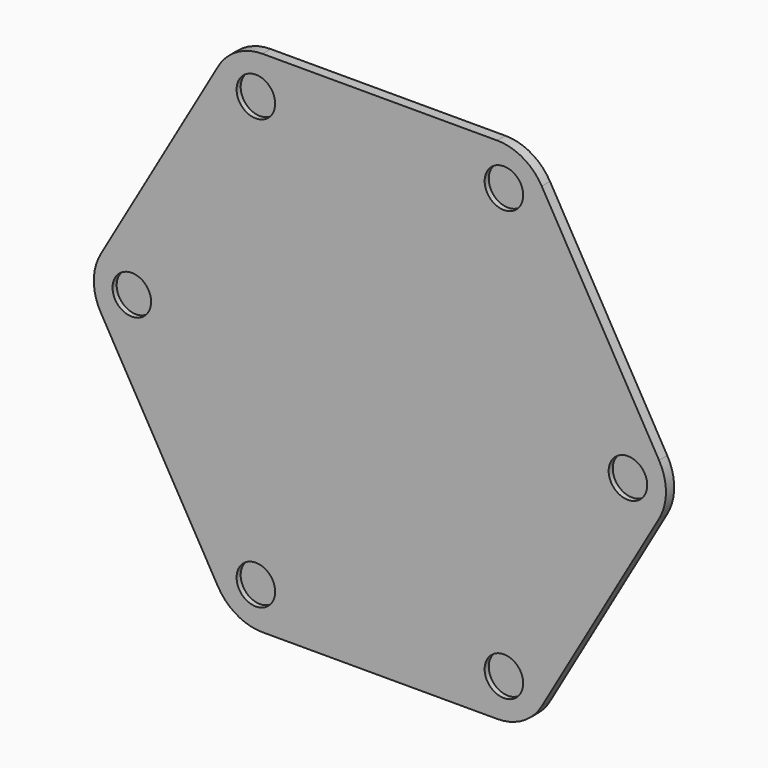
from build123d import *

# Parameters (mm, degrees)
F1_DEPTH = 5.08
F2_R     = 9.525
F3_DEPTH = 2.54


with BuildPart() as f1:
    # F0 (on Front) → F1 (new body)
    with BuildSketch(Plane.XZ):
        with BuildLine():
            Line((57.925553, 125.73), (-57.925553, 125.73))
            ThreePointArc((-57.925553, 125.73), (-70.625553, 122.327045), (-79.922598, 113.03))
            Line((-79.922598, 113.03), (-137.84815, 12.7))
            ThreePointArc((-137.84815, 12.7), (-141.251105, 0), (-137.84815, -12.7))
            Line((-137.84815, -12.7), (-79.922598, -113.03))
            ThreePointArc((-79.922598, -113.03), (-70.625553, -122.327045), (-57.925553, -125.73))
            Line((-57.925553, -125.73), (57.925553, -125.73))
            ThreePointArc((57.925553, -125.73), (70.625553, -122.327045), (79.922598, -113.03))
            Line((79.922598, -113.03), (137.84815, -12.7))
            ThreePointArc((137.84815, -12.7), (141.251105, 0), (137.84815, 12.7))
            Line((137.84815, 12.7), (79.922598, 113.03))
            ThreePointArc((79.922598, 113.03), (70.625553, 122.327045), (57.925553, 125.73))
        make_face()
    extrude(amount=F1_DEPTH)

    # F2 (on face) → F3 (cut)
    with BuildSketch(Plane.XZ.offset(5.08)):
        with Locations((-61.244378, 106.078375)):
            Circle(F2_R)
        with Locations((-122.488757, 0)):
            Circle(F2_R)
        with Locations((-61.244378, -106.078375)):
            Circle(F2_R)
        with Locations((61.244378, -106.078375)):
            Circle(F2_R)
        with Locations((122.488757, 0)):
            Circle(F2_R)
        with Locations((61.244378, 106.078375)):
            Circle(F2_R)
    extrude(amount=-F3_DEPTH, mode=Mode.SUBTRACT)


solid = f1.part
